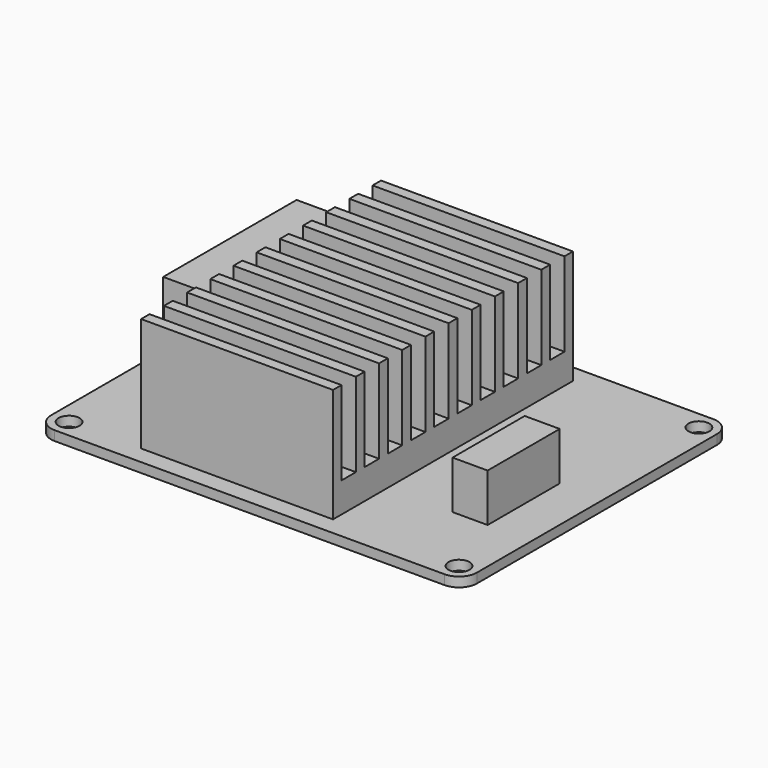
from build123d import *

# Parameters (mm, degrees)
F0_R     = 1.75
F1_DEPTH = 1.6
F2_W     = 5.842995
F2_H     = 15.024841
F3_DEPTH = 8
F4_W     = 32
F4_H     = 50
F5_DEPTH = 19
F6_W     = 3
F6_H     = 14
F7_DEPTH = 32
F8_W     = 8.602944
F8_H     = 27.794118
F9_DEPTH = 14


with BuildPart() as f1:
    # F0 (on Top) → F1 (new body)
    with BuildSketch(Plane.XY):
        with BuildLine():
            ThreePointArc((35.5, 25), (34.62132, 27.12132), (32.5, 28))
            Line((32.5, 28), (-32.5, 28))
            ThreePointArc((-32.5, 28), (-34.62132, 27.12132), (-35.5, 25))
            Line((-35.5, 25), (-35.5, -25))
            ThreePointArc((-35.5, -25), (-34.62132, -27.12132), (-32.5, -28))
            Line((-32.5, -28), (32.5, -28))
            ThreePointArc((32.5, -28), (34.62132, -27.12132), (35.5, -25))
            Line((35.5, -25), (35.5, 25))
        make_face()
        with Locations((-32.5, -25)):
            Circle(F0_R, mode=Mode.SUBTRACT)
        with Locations((32.5, -25)):
            Circle(F0_R, mode=Mode.SUBTRACT)
        with Locations((-32.5, 25)):
            Circle(F0_R, mode=Mode.SUBTRACT)
        with Locations((32.5, 25)):
            Circle(F0_R, mode=Mode.SUBTRACT)
    extrude(amount=F1_DEPTH)

    # F2 (on face) → F3 (join)
    with BuildSketch(Plane.XY.offset(1.6)):
        with Locations((25.289628, -6.157123)):
            Rectangle(F2_W, F2_H)
    extrude(amount=F3_DEPTH)

    # F4 (on face) → F5 (join)
    with BuildSketch(Plane.XY.offset(1.6)):
        with Locations((-4.5, 0)):
            Rectangle(F4_W, F4_H)
    extrude(amount=F5_DEPTH)

    # F6 (on face) → F7 (cut, through all)
    with BuildSketch(Plane.YZ.offset(11.5)):
        with Locations((-21.737268, 13.6)):
            Rectangle(F6_W, F6_H)
        with Locations((-16.906764, 13.6)):
            Rectangle(F6_W, F6_H)
        with Locations((-12.07626, 13.6)):
            Rectangle(F6_W, F6_H)
        with Locations((-7.245756, 13.6)):
            Rectangle(F6_W, F6_H)
        with Locations((-2.415252, 13.6)):
            Rectangle(F6_W, F6_H)
        with Locations((2.415252, 13.6)):
            Rectangle(F6_W, F6_H)
        with Locations((7.245756, 13.6)):
            Rectangle(F6_W, F6_H)
        with Locations((12.07626, 13.6)):
            Rectangle(F6_W, F6_H)
        with Locations((16.906764, 13.6)):
            Rectangle(F6_W, F6_H)
        with Locations((21.737268, 13.6)):
            Rectangle(F6_W, F6_H)
    extrude(amount=-F7_DEPTH, mode=Mode.SUBTRACT)

    # F8 (on face) → F9 (join)
    with BuildSketch(Plane.XY.offset(1.6)):
        with Locations((-27.370911, 7.468621)):
            Rectangle(F8_W, F8_H)
    extrude(amount=F9_DEPTH)


solid = f1.part
